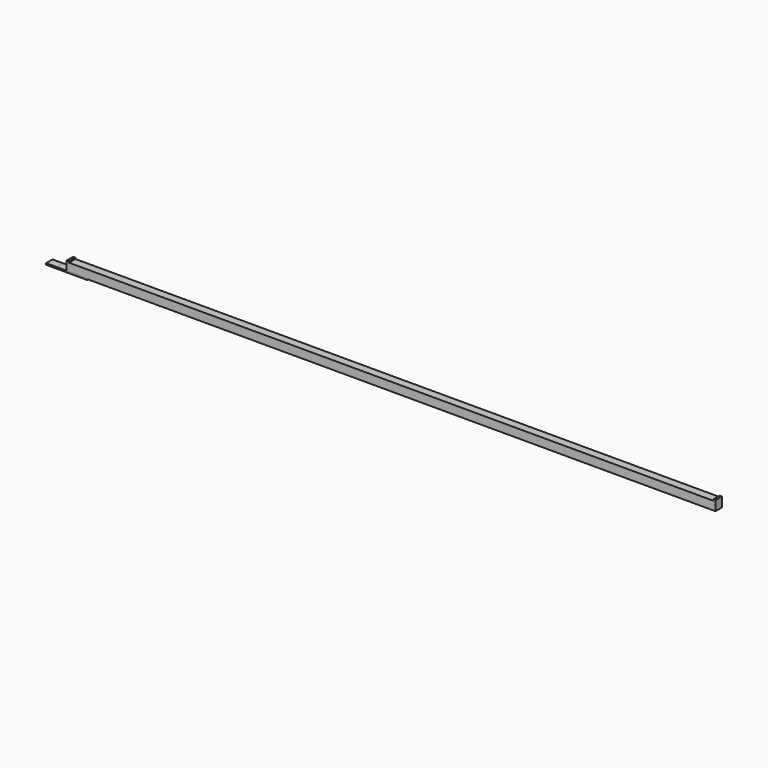
from build123d import *

# Parameters (mm, degrees)
F1_DEPTH = 80
F2_W     = 410
F2_H     = 15
F3_DEPTH = 80
F4_W     = 200
F4_H     = 15
F5_DEPTH = 80


with BuildPart() as f1:
    # F0 (on Front) → F1 (new body)
    with BuildSketch(Plane.XZ):
        Polygon((22, 97), (0, 97), (0, 0), (6444, 0), (6444, 97), (6422, 97), (6422, 85), (22, 85), align=None)
    extrude(amount=F1_DEPTH)


with BuildPart() as f3:
    # F2 (on Front) → F3 (new body)
    with BuildSketch(Plane.XZ):
        Rectangle(F2_W, F2_H)
    extrude(amount=F3_DEPTH)


with BuildPart() as f5:
    # F4 (on Front) → F5 (new body)
    with BuildSketch(Plane.XZ):
        Rectangle(F4_W, F4_H)
    extrude(amount=F5_DEPTH)


solid = Compound([f1.part, f3.part, f5.part])
